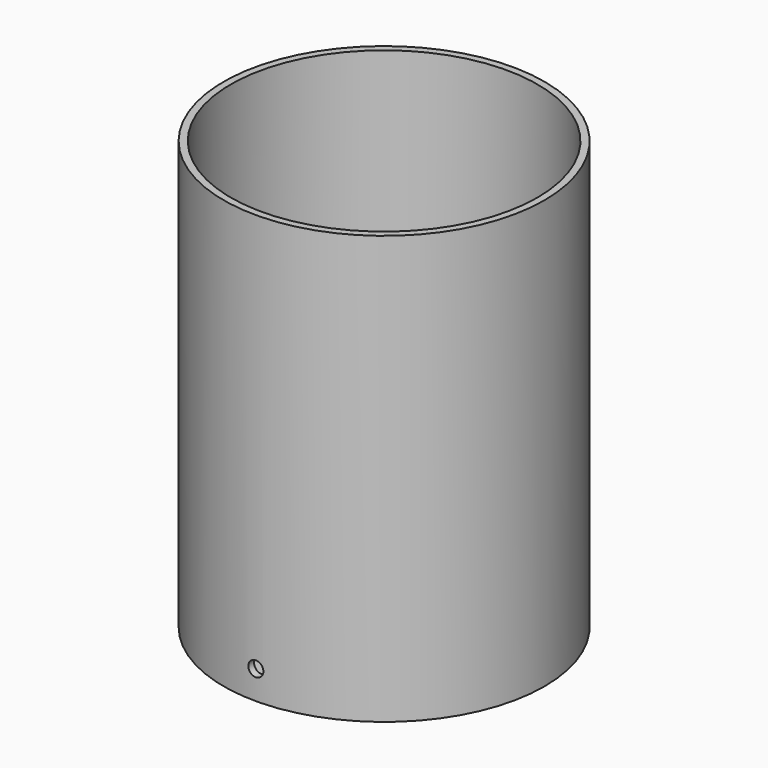
from build123d import *

# Parameters (mm, degrees)
F0_R     = 285.75
F1_DEPTH = 762
F2_T     = -12.7
F3_R     = 13.335
F4_DEPTH = 327.66


with BuildPart() as f1:
    # F0 (on Top) → F1 (new body)
    with BuildSketch(Plane.XY):
        Circle(F0_R)
    extrude(amount=F1_DEPTH)

    # F2
    f2_openings = [f1.faces().sort_by_distance(p)[0] for p in [
        (0, 0, 762),
    ]]
    offset(amount=F2_T, openings=f2_openings)

    # F3 (on Front) → F4 (cut)
    with BuildSketch(Plane.XZ):
        with Locations((0, 50.8)):
            Circle(F3_R)
    extrude(amount=F4_DEPTH, mode=Mode.SUBTRACT)


solid = f1.part
